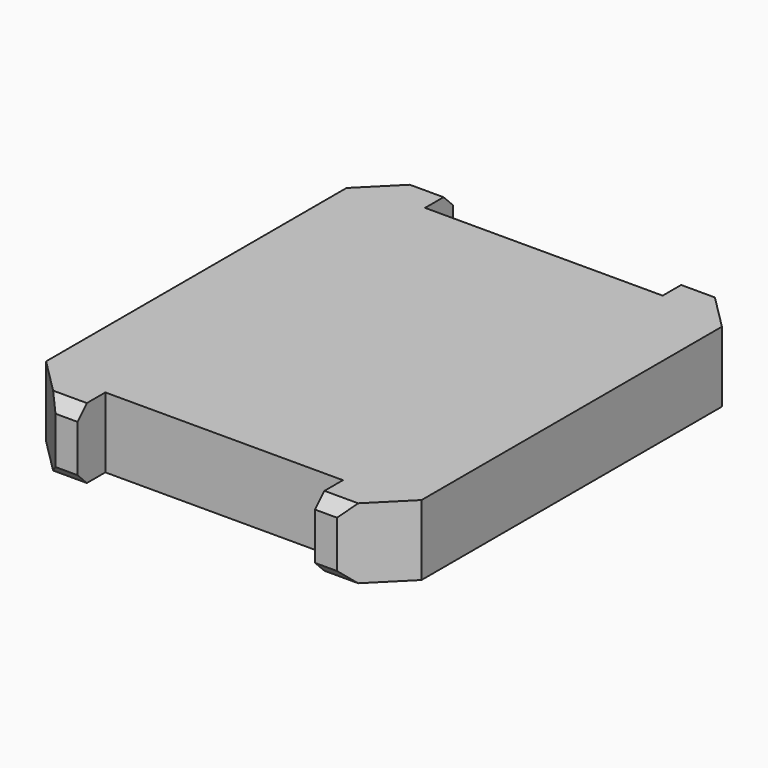
from build123d import *

# Parameters (mm, degrees)
SKETCH_W        = 32
SKETCH_H        = 40
PAD_DEPTH       = 6
CHAMFER_SIZE    = 4
CHAMFER001_SIZE = 1
SKETCH001_W     = 20.25
SKETCH001_H     = 20
POCKET_DEPTH    = 10


with BuildPart() as part:
    # Sketch (on XY_Plane of Origin) → Pad (new body)
    with BuildSketch(Plane.XY):
        Rectangle(SKETCH_W, SKETCH_H)
    extrude(amount=PAD_DEPTH)

    # Chamfer
    chamfer_edges = [part.edges().sort_by_distance(p)[0] for p in [
        (16, 20, 3),
        (16, -20, 3),
        (-16, 20, 3),
        (-16, -20, 3),
    ]]
    chamfer(chamfer_edges, length=CHAMFER_SIZE)

    # Chamfer001
    chamfer001_edges = [part.edges().sort_by_distance(p)[0] for p in [
        (0, -20, 0),
        (0, -20, 6),
        (0, 20, 0),
        (0, 20, 6),
    ]]
    chamfer(chamfer001_edges, length=CHAMFER001_SIZE)

    # Sketch001 (on Face8 of Chamfer001) → Pocket (cut)
    with BuildSketch(Plane.XY.offset(6)):
        with Locations((0, -27.031727)):
            Rectangle(SKETCH001_W, SKETCH001_H)
        with Locations((0, 27.031727)):
            Rectangle(SKETCH001_W, SKETCH001_H)
    extrude(amount=-POCKET_DEPTH, mode=Mode.SUBTRACT)


solid = part.part
